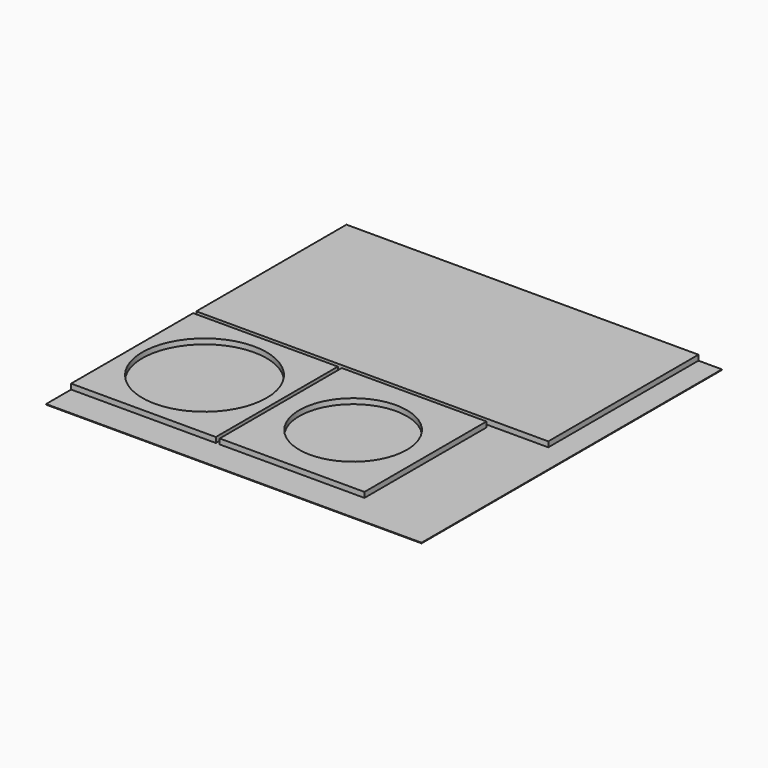
from build123d import *

# Parameters (mm, degrees)
F0_W     = 1219.2
F0_H     = 1219.2
F1_DEPTH = 19.05
F2_W     = 469.9
F2_H     = 495.3
F3_DEPTH = 17.145
F4_R     = 201.6125
F5_DEPTH = 17.145
F6_R     = 174.625
F7_DEPTH = 17.145


with BuildPart() as f1:
    # F0 (on Top) → F1 (new body)
    with BuildSketch(Plane.XY):
        Rectangle(F0_W, F0_H)
    extrude(amount=F1_DEPTH)

    # F2 (on face) → F3 (cut)
    with BuildSketch(Plane.XY.offset(19.05)):
        Polygon((609.6, 609.6), (533.4, 609.6), (533.4, 0), (-609.6, 0), (-609.6, -12.7), (-139.7, -12.7), (-139.7, -508), (-609.6, -508), (-609.6, -609.6), (609.6, -609.6), align=None)
        with Locations((107.95, -260.35)):
            Rectangle(F2_W, F2_H, mode=Mode.SUBTRACT)
    extrude(amount=-F3_DEPTH, mode=Mode.SUBTRACT)

    # F4 (on face) → F5 (cut)
    with BuildSketch(Plane.XY.offset(19.05)):
        with Locations((-374.65, -260.35)):
            Circle(F4_R)
    extrude(amount=-F5_DEPTH, mode=Mode.SUBTRACT)

    # F6 (on face) → F7 (cut)
    with BuildSketch(Plane.XY.offset(19.05)):
        with Locations((107.95, -260.35)):
            Circle(F6_R)
    extrude(amount=-F7_DEPTH, mode=Mode.SUBTRACT)


solid = f1.part
